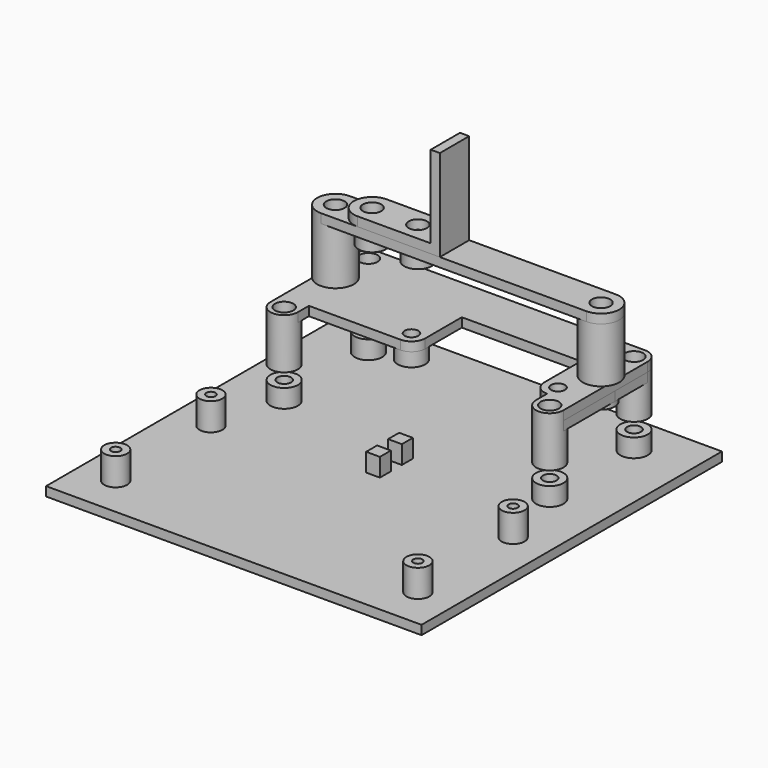
from build123d import *

# Parameters (mm, degrees)
SKETCH002_W   = 82
SKETCH002_H   = 82
PAD002_DEPTH  = 2
SKETCH003_R   = 3
SKETCH003_R_2 = 1.5
PAD003_DEPTH  = 4
SKETCH017_R   = 2.5
SKETCH017_R_2 = 1
PAD014_DEPTH  = 6
SKETCH018_W   = 3
SKETCH018_H   = 3
PAD015_DEPTH  = 4
SKETCH_R      = 2
SKETCH_R_2    = 1.5
PAD_DEPTH     = 2
SKETCH019_R   = 3
SKETCH019_R_2 = 1.5
PAD016_DEPTH  = 3
SKETCH020_R   = 3
SKETCH020_R_2 = 2
PAD017_DEPTH  = 9
SKETCH021_R   = 2
SKETCH021_R_2 = 1.5
PAD018_DEPTH  = 2
SKETCH023_R   = 2
SKETCH023_R_2 = 1.5
PAD020_DEPTH  = 2
SKETCH022_R   = 4
SKETCH022_R_2 = 2
PAD019_DEPTH  = 12
SKETCH024_R   = 3
SKETCH024_R_2 = 1.5
PAD021_DEPTH  = 3
SKETCH025_R   = 2
PAD022_DEPTH  = 2
SKETCH026_W   = 2
SKETCH026_H   = 18
PAD023_DEPTH  = 4


with BuildPart() as base:
    # Sketch002 → Pad002 (new body)
    with BuildSketch(Plane.XY):
        with Locations((41, 41)):
            Rectangle(SKETCH002_W, SKETCH002_H)
    extrude(amount=-PAD002_DEPTH)

    # Sketch003 → Pad003 (join)
    with BuildSketch(Plane.XY):
        with Locations((12, 73)):
            Circle(SKETCH003_R)
        with Locations((12, 73)):
            Circle(SKETCH003_R_2, mode=Mode.SUBTRACT)
        with Locations((70, 73)):
            Circle(SKETCH003_R)
        with Locations((70, 73)):
            Circle(SKETCH003_R_2, mode=Mode.SUBTRACT)
        with Locations((70, 50)):
            Circle(SKETCH003_R)
        with Locations((70, 50)):
            Circle(SKETCH003_R_2, mode=Mode.SUBTRACT)
        with Locations((12, 50)):
            Circle(SKETCH003_R)
        with Locations((12, 50)):
            Circle(SKETCH003_R_2, mode=Mode.SUBTRACT)
    extrude(amount=PAD003_DEPTH)

    # Sketch017 → Pad014 (join)
    with BuildSketch(Plane.XY):
        with Locations((8, 9)):
            Circle(SKETCH017_R)
        with Locations((8, 9)):
            Circle(SKETCH017_R_2, mode=Mode.SUBTRACT)
        with Locations((74, 9)):
            Circle(SKETCH017_R)
        with Locations((74, 9)):
            Circle(SKETCH017_R_2, mode=Mode.SUBTRACT)
        with Locations((74, 35)):
            Circle(SKETCH017_R)
        with Locations((74, 35)):
            Circle(SKETCH017_R_2, mode=Mode.SUBTRACT)
        with Locations((8, 35)):
            Circle(SKETCH017_R)
        with Locations((8, 35)):
            Circle(SKETCH017_R_2, mode=Mode.SUBTRACT)
    extrude(amount=PAD014_DEPTH)

    # Sketch018 → Pad015 (join)
    with BuildSketch(Plane.XY):
        with Locations((41, 45.5)):
            Rectangle(SKETCH018_W, SKETCH018_H)
        with Locations((41, 39.5)):
            Rectangle(SKETCH018_W, SKETCH018_H)
    extrude(amount=PAD015_DEPTH)


with BuildPart() as base_1:
    # Body002 placement: moved
    add(base.part.moved(Location((0, 0, -4))))


with BuildPart() as fan:
    # Sketch → Pad (new body)
    with BuildSketch(Plane.XY):
        with BuildLine():
            Line((0, 26), (0, 3))
            ThreePointArc((0, 3), (3, 0), (6, 3))
            Line((6, 6), (6, 3))
            Line((6, 6), (25.999999, 6))
            ThreePointArc((25.999999, 6), (28.12132, 6.87868), (28.999999, 9))
            Line((28.999999, 9), (28.999999, 19))
            Line((28.999999, 19), (54.999999, 19))
            Line((54.999999, 19), (54.999999, 9))
            ThreePointArc((54.999999, 9), (55.878679, 6.878679), (58, 6))
            Line((58, 3), (58, 6))
            ThreePointArc((58, 3), (61, 0), (64, 3))
            Line((64, 3), (64, 26))
            ThreePointArc((64, 26), (63.12132, 28.12132), (61, 29))
            Line((61, 29), (3, 29))
            ThreePointArc((3, 29), (0.87868, 28.12132), (0, 26))
        make_face()
        with Locations((3, 3)):
            Circle(SKETCH_R, mode=Mode.SUBTRACT)
        with Locations((3, 26)):
            Circle(SKETCH_R, mode=Mode.SUBTRACT)
        with Locations((61, 26)):
            Circle(SKETCH_R, mode=Mode.SUBTRACT)
        with Locations((61, 3)):
            Circle(SKETCH_R, mode=Mode.SUBTRACT)
        with Locations((25.999999, 9)):
            Circle(SKETCH_R_2, mode=Mode.SUBTRACT)
        with Locations((57.999999, 9)):
            Circle(SKETCH_R_2, mode=Mode.SUBTRACT)
        with Locations((3, 17)):
            Circle(SKETCH_R_2, mode=Mode.SUBTRACT)
        with Locations((61, 17)):
            Circle(SKETCH_R_2, mode=Mode.SUBTRACT)
    extrude(amount=PAD_DEPTH)

    # Sketch019 → Pad016 (join)
    with BuildSketch(Plane.XY):
        with Locations((26, 9)):
            Circle(SKETCH019_R)
        with Locations((26, 9)):
            Circle(SKETCH019_R_2, mode=Mode.SUBTRACT)
        with Locations((58, 9)):
            Circle(SKETCH019_R)
        with Locations((58, 9)):
            Circle(SKETCH019_R_2, mode=Mode.SUBTRACT)
        with Locations((3, 17)):
            Circle(SKETCH019_R)
        with Locations((3, 17)):
            Circle(SKETCH019_R_2, mode=Mode.SUBTRACT)
        with Locations((61, 17)):
            Circle(SKETCH019_R)
        with Locations((61, 17)):
            Circle(SKETCH019_R_2, mode=Mode.SUBTRACT)
    extrude(amount=-PAD016_DEPTH)

    # Sketch020 → Pad017 (join)
    with BuildSketch(Plane.XY):
        with Locations((3, 26)):
            Circle(SKETCH020_R)
        with Locations((3, 26)):
            Circle(SKETCH020_R_2, mode=Mode.SUBTRACT)
        with Locations((61, 26)):
            Circle(SKETCH020_R)
        with Locations((61, 26)):
            Circle(SKETCH020_R_2, mode=Mode.SUBTRACT)
        with Locations((3, 3)):
            Circle(SKETCH020_R)
        with Locations((3, 3)):
            Circle(SKETCH020_R_2, mode=Mode.SUBTRACT)
        with Locations((61, 3)):
            Circle(SKETCH020_R)
        with Locations((61, 3)):
            Circle(SKETCH020_R_2, mode=Mode.SUBTRACT)
    extrude(amount=-PAD017_DEPTH)

    # Sketch021 → Pad018 (join)
    with BuildSketch(Plane.XY):
        with BuildLine():
            ThreePointArc((3, 29), (0.87868, 28.12132), (0, 26))
            Line((0, 26), (0, 3))
            ThreePointArc((0, 3), (5.12132, 0.87868), (3, 6))
            Line((3, 14), (3, 6))
            ThreePointArc((3, 14), (5.12132, 14.87868), (6, 17))
            Line((6, 17), (6, 23))
            Line((6, 23), (58, 23))
            Line((58, 23), (58, 17))
            ThreePointArc((58, 17), (58.87868, 14.87868), (61, 14))
            Line((61, 6), (61, 14))
            ThreePointArc((61, 6), (58.87868, 0.87868), (64, 3))
            Line((64, 26), (64, 3))
            ThreePointArc((64, 26), (63.12132, 28.12132), (61, 29))
            Line((61, 29), (3, 29))
        make_face()
        with Locations((3, 26)):
            Circle(SKETCH021_R, mode=Mode.SUBTRACT)
        with Locations((61, 26)):
            Circle(SKETCH021_R, mode=Mode.SUBTRACT)
        with Locations((3, 3)):
            Circle(SKETCH021_R, mode=Mode.SUBTRACT)
        with Locations((61, 3)):
            Circle(SKETCH021_R, mode=Mode.SUBTRACT)
        with Locations((3, 17)):
            Circle(SKETCH021_R_2, mode=Mode.SUBTRACT)
        with Locations((61, 17)):
            Circle(SKETCH021_R_2, mode=Mode.SUBTRACT)
    extrude(amount=-PAD018_DEPTH)


with BuildPart() as fan_1:
    # Body placement: moved
    add(fan.part.moved(Location((9, 47, 12))))


with BuildPart() as obj1:
    # Sketch023 → Pad020 (new body)
    with BuildSketch(Plane.XY):
        with BuildLine():
            ThreePointArc((3, 4), (-1, 0), (2.999999, -4))
            Line((61, -4), (2.999999, -4))
            ThreePointArc((61, -4), (65, 0), (61, 4))
            Line((3, 4), (61, 4))
        make_face()
        with Locations((3, 0)):
            Circle(SKETCH023_R, mode=Mode.SUBTRACT)
        with Locations((61, 0)):
            Circle(SKETCH023_R, mode=Mode.SUBTRACT)
        with Locations((11, 0)):
            Circle(SKETCH023_R_2, mode=Mode.SUBTRACT)
        with Locations((21, 0)):
            Circle(SKETCH023_R_2, mode=Mode.SUBTRACT)
    extrude(amount=PAD020_DEPTH)

    # Sketch022 → Pad019 (join)
    with BuildSketch(Plane.XY):
        with Locations((61, 0)):
            Circle(SKETCH022_R)
        with Locations((61, 0)):
            Circle(SKETCH022_R_2, mode=Mode.SUBTRACT)
        with Locations((3, 0)):
            Circle(SKETCH022_R)
        with Locations((3, 0)):
            Circle(SKETCH022_R_2, mode=Mode.SUBTRACT)
    extrude(amount=-PAD019_DEPTH)

    # Sketch024 → Pad021 (join)
    with BuildSketch(Plane.XY):
        with Locations((11, 0)):
            Circle(SKETCH024_R)
        with Locations((11, 0)):
            Circle(SKETCH024_R_2, mode=Mode.SUBTRACT)
        with Locations((21, 0)):
            Circle(SKETCH024_R)
        with Locations((21, 0)):
            Circle(SKETCH024_R_2, mode=Mode.SUBTRACT)
    extrude(amount=-PAD021_DEPTH)


with BuildPart() as obj1_1:
    # Body003 placement: moved
    add(obj1.part.moved(Location((9, 64, 26))))


with BuildPart() as post:
    # Sketch025 → Pad022 (new body)
    with BuildSketch(Plane.XY.offset(28)):
        with BuildLine():
            ThreePointArc((20, 71), (16, 67), (20, 63))
            Line((38, 63), (20, 63))
            Line((38, 71), (38, 63))
            Line((20, 71), (38, 71))
        make_face()
        with Locations((20, 67)):
            Circle(SKETCH025_R, mode=Mode.SUBTRACT)
        with Locations((30, 67)):
            Circle(SKETCH025_R, mode=Mode.SUBTRACT)
    extrude(amount=PAD022_DEPTH)

    # Sketch026 → Pad023 (join, symmetric)
    with BuildSketch(Plane.XZ.offset(-67)):
        with Locations((37, 39)):
            Rectangle(SKETCH026_W, SKETCH026_H)
    extrude(amount=PAD023_DEPTH, both=True)


with BuildPart() as post_1:
    # Body004 placement: moved
    add(post.part.moved(Location((0, -3, 0))))


solid = Compound([base_1.part, fan_1.part, obj1_1.part, post_1.part])
